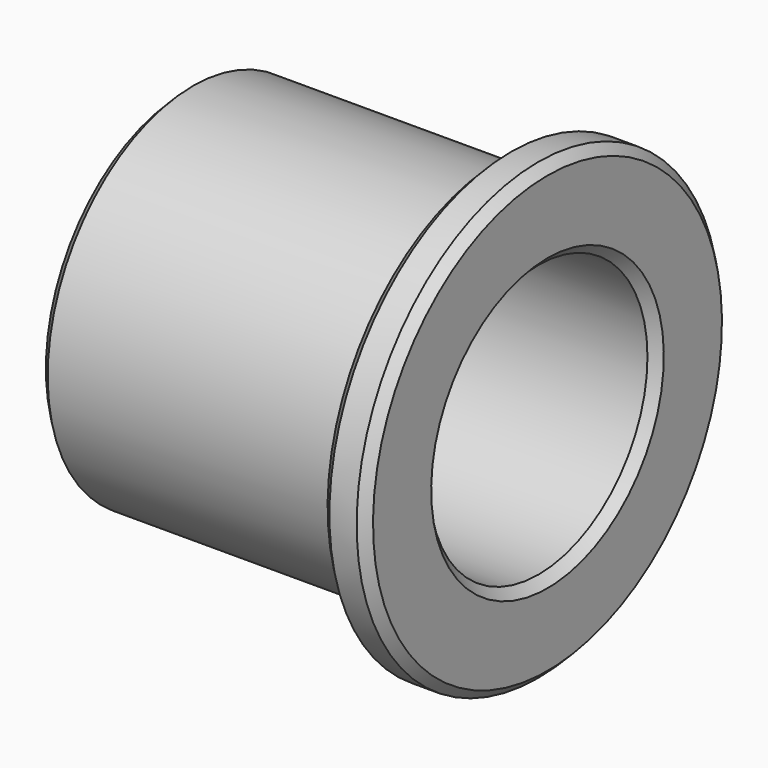
from build123d import *

# Parameters (mm, degrees)
F2_SIZE = 0.635


with BuildPart() as f1:
    # F0 (on Front) → F1 (revolve)
    with BuildSketch(Plane.XZ):
        Polygon((0, 12.7), (0, 9.525), (25.4, 9.525), (25.4, 15.875), (22.225, 15.875), (22.225, 12.7), align=None)
    revolve(axis=Axis((10.366244, 0, 0), (1, 0, 0)))

    # F2
    f2_edges = [f1.edges().sort_by_distance(p)[0] for p in [
        (25.4, 0, -15.875),
        (0, 0, -12.7),
        (22.225, 0, -15.875),
        (25.4, 0, -9.525),
        (0, 0, -9.525),
    ]]
    chamfer(f2_edges, length=F2_SIZE)


solid = f1.part
